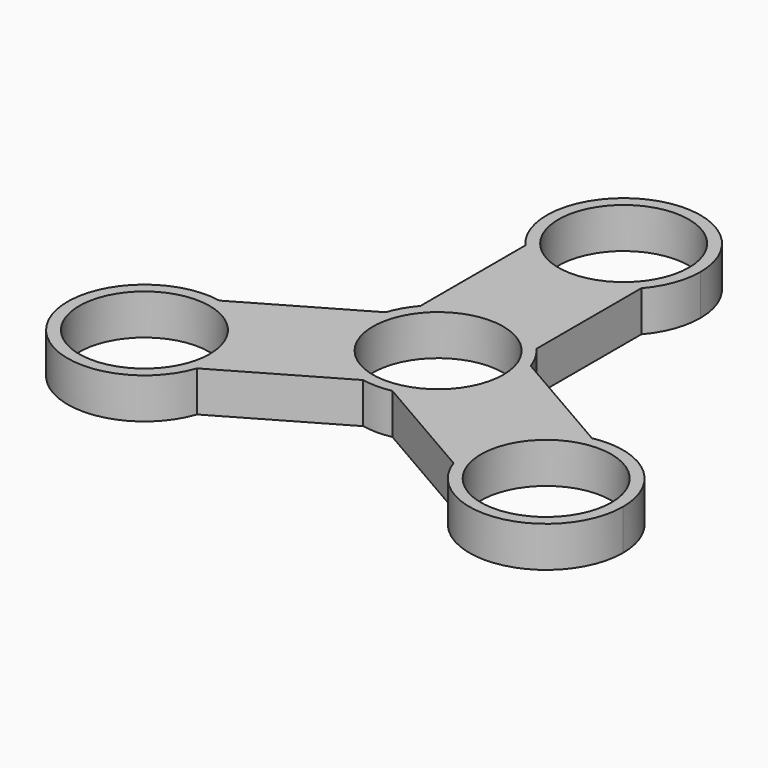
from build123d import *

# Parameters (mm, degrees)
F0_R     = 11.25
F1_DEPTH = 7


with BuildPart() as f1:
    # F0 (on Top) → F1 (new body)
    with BuildSketch(Plane.XY):
        with BuildLine():
            ThreePointArc((2.528072, -13.006589), (10.223978, -8.428094), (13.25, 0))
            ThreePointArc((13.25, 0), (13.068272, 2.186954), (12.528072, 4.313919))
            ThreePointArc((12.528072, 4.313919), (11.474837, 6.625), (10, 8.692669))
            ThreePointArc((10, 8.692669), (0, 13.25), (-10, 8.692669))
            ThreePointArc((-10, 8.692669), (-11.474837, 6.625), (-12.528072, 4.313919))
            ThreePointArc((-12.528072, 4.313919), (-11.474837, -6.625), (-2.528072, -13.006589))
            ThreePointArc((-2.528072, -13.006589), (0, -13.25), (2.528072, -13.006589))
        make_face()
        Circle(F0_R, mode=Mode.SUBTRACT)
        with BuildLine():
            ThreePointArc((12.528072, 4.313919), (13.068272, 2.186954), (13.25, 0))
            ThreePointArc((13.25, 0), (10.223978, -8.428094), (2.528072, -13.006589))
            Line((2.528072, -13.006589), (22.112944, -24.313919))
            ThreePointArc((22.112944, -24.313919), (23.16618, -13.375), (32.112944, -6.993411))
            Line((32.112944, -6.993411), (12.528072, 4.313919))
        make_face()
        with BuildLine():
            ThreePointArc((-10, 8.692669), (0, 13.25), (10, 8.692669))
            Line((10, 8.692669), (10, 31.307331))
            ThreePointArc((10, 31.307331), (0, 26.75), (-10, 31.307331))
            Line((-10, 31.307331), (-10, 8.692669))
        make_face()
        with BuildLine():
            ThreePointArc((47.891016, -20), (43.06911, -9.776022), (32.112944, -6.993411))
            ThreePointArc((32.112944, -6.993411), (23.16618, -13.375), (22.112944, -24.313919))
            ThreePointArc((22.112944, -24.313919), (36.827971, -33.068272), (47.891016, -20))
        make_face()
        with Locations((34.641016, -20)):
            Circle(F0_R, mode=Mode.SUBTRACT)
        with BuildLine():
            Line((-22.112944, -24.313919), (-2.528072, -13.006589))
            ThreePointArc((-2.528072, -13.006589), (-11.474837, -6.625), (-12.528072, 4.313919))
            Line((-12.528072, 4.313919), (-32.112944, -6.993411))
            ThreePointArc((-32.112944, -6.993411), (-24.417038, -11.571906), (-21.391016, -20))
            ThreePointArc((-21.391016, -20), (-21.572744, -22.186954), (-22.112944, -24.313919))
        make_face()
        with BuildLine():
            ThreePointArc((-10, 31.307331), (0, 26.75), (10, 31.307331))
            ThreePointArc((10, 31.307331), (12.410933, 35.359822), (13.25, 40))
            ThreePointArc((13.25, 40), (-4.640178, 52.410933), (-10, 31.307331))
        make_face()
        with Locations((0, 40)):
            Circle(F0_R, mode=Mode.SUBTRACT)
        with BuildLine():
            ThreePointArc((-32.112944, -6.993411), (-46.115853, -26.625), (-22.112944, -24.313919))
            ThreePointArc((-22.112944, -24.313919), (-21.572744, -22.186954), (-21.391016, -20))
            ThreePointArc((-21.391016, -20), (-24.417038, -11.571906), (-32.112944, -6.993411))
        make_face()
        with Locations((-34.641016, -20)):
            Circle(F0_R, mode=Mode.SUBTRACT)
    extrude(amount=F1_DEPTH)


solid = f1.part
